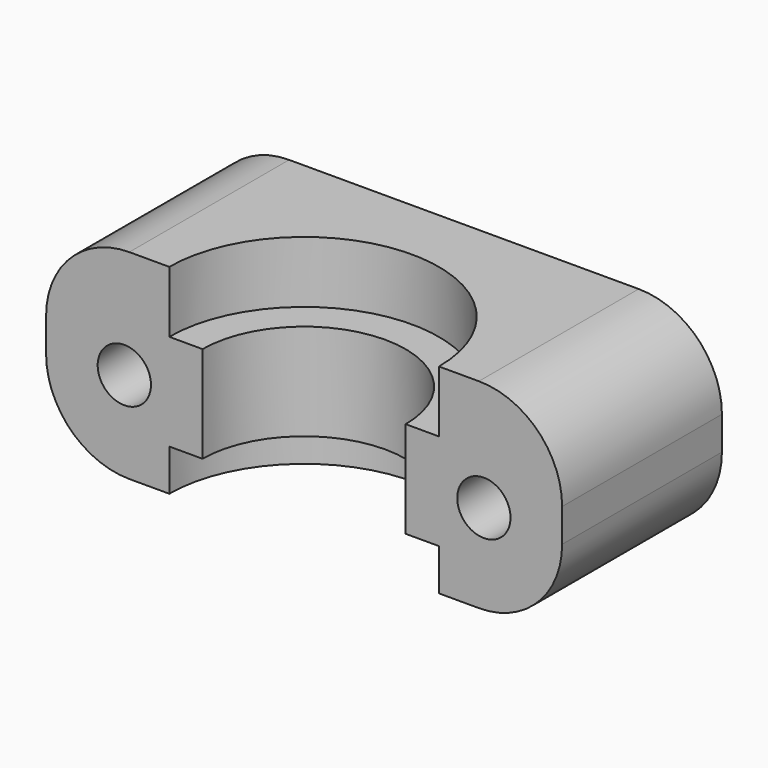
from build123d import *

# Parameters (mm, degrees)
F1_DEPTH = 3.7
F3_DEPTH = 5.8
F5_DEPTH = 2.5
F6_R     = 1.6
F7_DEPTH = 12.001
F8_R     = 3.25
F9_DEPTH = 3.5
F10_R    = 5


with BuildPart() as f1:
    # F0 (on Top) → F1 (new body)
    with BuildSketch(Plane.XY):
        with BuildLine():
            Line((15.5, 12), (-15.5, 12))
            Line((-15.5, 12), (-15.5, 0))
            Line((-15.5, 0), (-8.1, 0))
            ThreePointArc((-8.1, 0), (0, 8.1), (8.1, 0))
            Line((8.1, 0), (15.5, 0))
            Line((15.5, 0), (15.5, 12))
        make_face()
    extrude(amount=-F1_DEPTH)

    # F2 (on face) → F3 (join)
    with BuildSketch(Plane(origin=(0, 0, -3.7), x_dir=(1, 0, 0), z_dir=(0, 0, -1))):
        with BuildLine():
            Line((0, -12), (15.5, -12))
            Line((15.5, -12), (15.5, 0))
            Line((15.5, 0), (6.1, 0))
            ThreePointArc((6.1, 0), (0, -6.1), (-6.1, 0))
            Line((-6.1, 0), (-8.1, 0))
            Line((-8.1, 0), (-15.5, 0))
            Line((-15.5, 0), (-15.5, -12))
            Line((-15.5, -12), (0, -12))
        make_face()
    extrude(amount=F3_DEPTH)

    # F4 (on face) → F5 (join)
    with BuildSketch(Plane(origin=(0, 0, -9.5), x_dir=(1, 0, 0), z_dir=(0, 0, -1))):
        with BuildLine():
            Line((15.5, 0), (8.1, 0))
            ThreePointArc((8.1, 0), (0, -8.1), (-8.1, 0))
            Line((-8.1, 0), (-15.5, 0))
            Line((-15.5, 0), (-15.5, -12))
            Line((-15.5, -12), (15.5, -12))
            Line((15.5, -12), (15.5, 0))
        make_face()
    extrude(amount=F5_DEPTH)

    # F6 (on face) → F7 (cut, through all)
    with BuildSketch(Plane.XZ):
        with Locations((-10.8, -6.6)):
            Circle(F6_R)
        with Locations((10.8, -6.6)):
            Circle(F6_R)
    extrude(amount=-F7_DEPTH, mode=Mode.SUBTRACT)

    # F8 (on face) → F9 (cut)
    with BuildSketch(Plane(origin=(0, 12, 0), x_dir=(-1, 0, 0), z_dir=(0, 1, 0))):
        with Locations((-10.8, -6.6)):
            Circle(F8_R)
        with Locations((10.8, -6.6)):
            Circle(F8_R)
    extrude(amount=-F9_DEPTH, mode=Mode.SUBTRACT)

    # F10
    f10_edges = [f1.edges().sort_by_distance(p)[0] for p in [
        (15.5, 6, 0),
        (15.5, 6, -12),
        (-15.5, 6, 0),
        (-15.5, 6, -12),
    ]]
    fillet(f10_edges, radius=F10_R)


solid = f1.part
